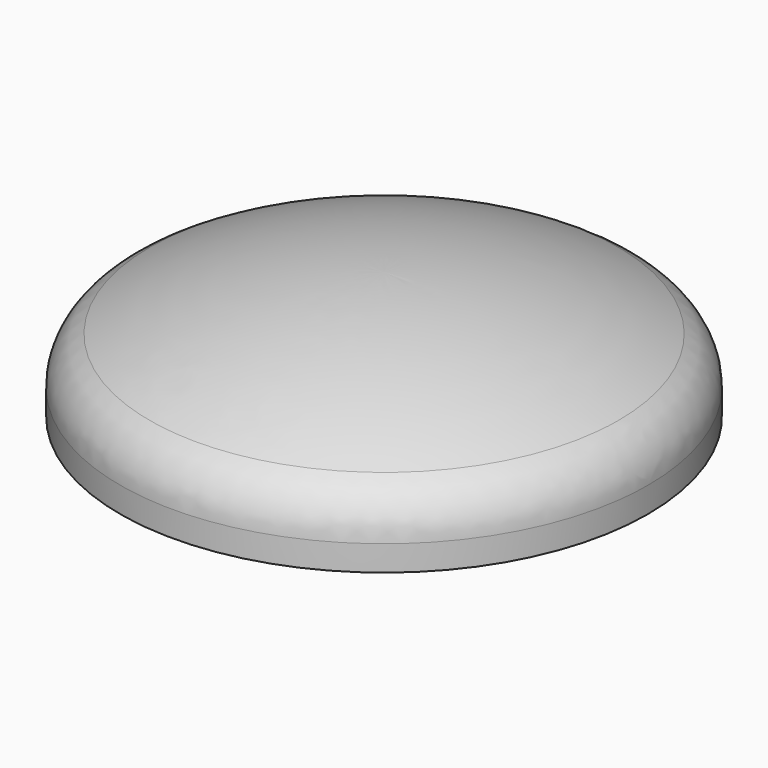
from build123d import *

# Parameters (mm, degrees)
F2_R = 55
F3_R = 55


with BuildPart() as f1:
    # F0 (on Front) → F1 (revolve)
    with BuildSketch(Plane.XZ):
        with BuildLine():
            ThreePointArc((275, 482.078832), (142.251974, 536.460041), (0, 555))
            Line((0, 555), (0, 550))
            ThreePointArc((0, 550), (139.568499, 531.996837), (270, 479.165942))
            Line((270, 479.165942), (270, 422.5))
            Line((270, 422.5), (275, 422.5))
            Line((275, 422.5), (275, 476.313972))
            Line((275, 476.313972), (275, 482.078832))
        make_face()
    revolve(axis=Axis((0, 0, 339.339674), (0, 0, 1)))

    # F2
    f2_edges = [f1.edges().sort_by_distance(p)[0] for p in [
        (-270, 0, 479.165942),
    ]]
    fillet(f2_edges, radius=F2_R)

    # F3
    f3_edges = [f1.edges().sort_by_distance(p)[0] for p in [
        (-275, 0, 482.078832),
    ]]
    fillet(f3_edges, radius=F3_R)


solid = f1.part
